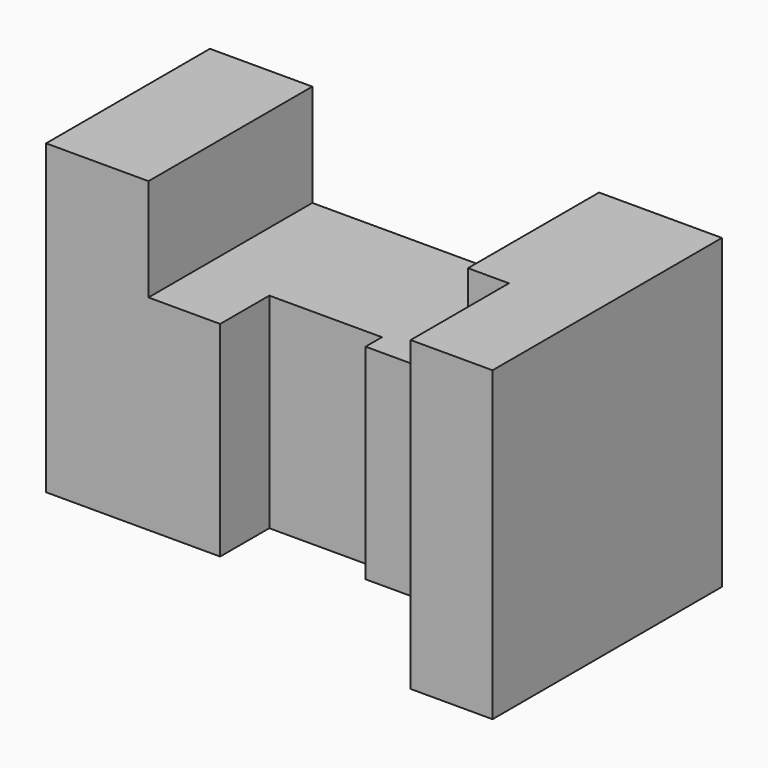
from build123d import *

# Parameters (mm, degrees)
F1_DEPTH = 50
F2_W     = 25
F2_H     = 50
F3_DEPTH = 25
F5_DEPTH = 25


with BuildPart() as f1:
    # F0 (on Top) → F1 (new body)
    with BuildSketch(Plane.XY):
        Polygon((-20, 0), (0, 0), (0, 70), (-125, 70), (-125, 20), (-82.5, 20), (-82.5, 35), (-55, 35), (-55, 30), (-20, 30), align=None)
    extrude(amount=F1_DEPTH)

    # F2 (on face) → F3 (join)
    with BuildSketch(Plane.XY.offset(50)):
        with Locations((-112.5, 45)):
            Rectangle(F2_W, F2_H)
    extrude(amount=F3_DEPTH)

    # F4 (on face) → F5 (join)
    with BuildSketch(Plane.XY.offset(50)):
        Polygon((-30, 70), (-30, 30), (-20, 30), (-20, 0), (0, 0), (0, 70), align=None)
    extrude(amount=F5_DEPTH)


solid = f1.part
